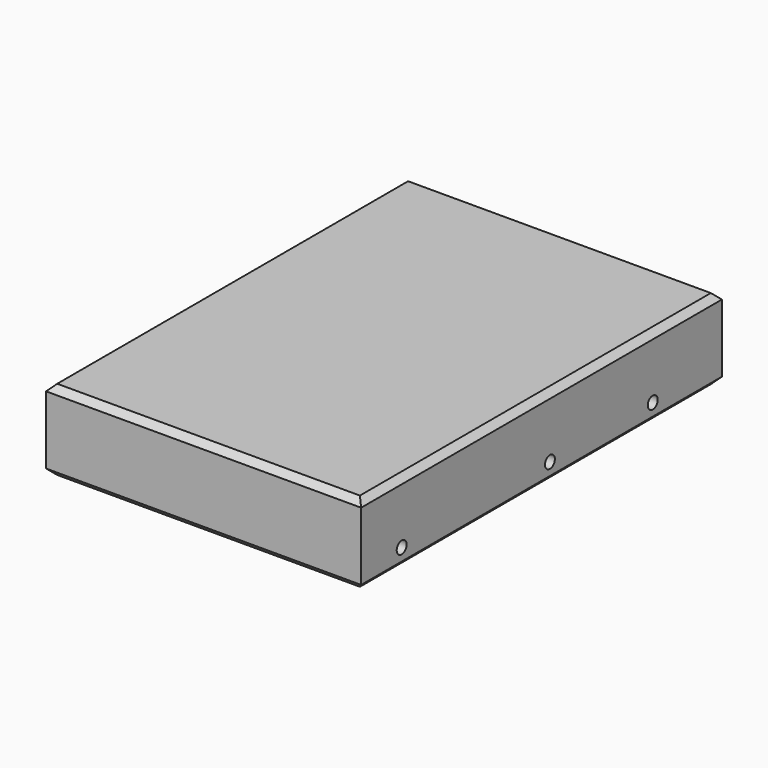
from build123d import *

# Parameters (mm, degrees)
SKETCH048_W     = 102
SKETCH048_H     = 146
PAD013_DEPTH    = 26
SKETCH049_R     = 2
POCKET034_DEPTH = 102.001
CHAMFER002_SIZE = 2


with BuildPart() as part:
    # Sketch048 → Pad013 (new body)
    with BuildSketch(Plane.XY):
        Rectangle(SKETCH048_W, SKETCH048_H)
    extrude(amount=PAD013_DEPTH)

    # Sketch049 (on Face3 of Pad013) → Pocket034 (cut, through all)
    with BuildSketch(Plane.YZ.offset(51)):
        with Locations((45, 6)):
            Circle(SKETCH049_R)
        with Locations((3.4, 6)):
            Circle(SKETCH049_R)
        with Locations((-56.6, 6)):
            Circle(SKETCH049_R)
    extrude(amount=-POCKET034_DEPTH, mode=Mode.SUBTRACT)

    # Chamfer002
    chamfer002_edges = [part.edges().sort_by_distance(p)[0] for p in [
        (-51, 0, 0),
        (0, -73, 0),
        (51, 0, 0),
        (0, 73, 0),
        (-51, 0, 26),
        (0, -73, 26),
        (51, 0, 26),
        (0, 73, 26),
    ]]
    chamfer(chamfer002_edges, length=CHAMFER002_SIZE)


with BuildPart() as part_1:
    # Body011 placement: moved
    add(part.part.moved(Location((63.5, 58.3, 8))))


solid = part_1.part
